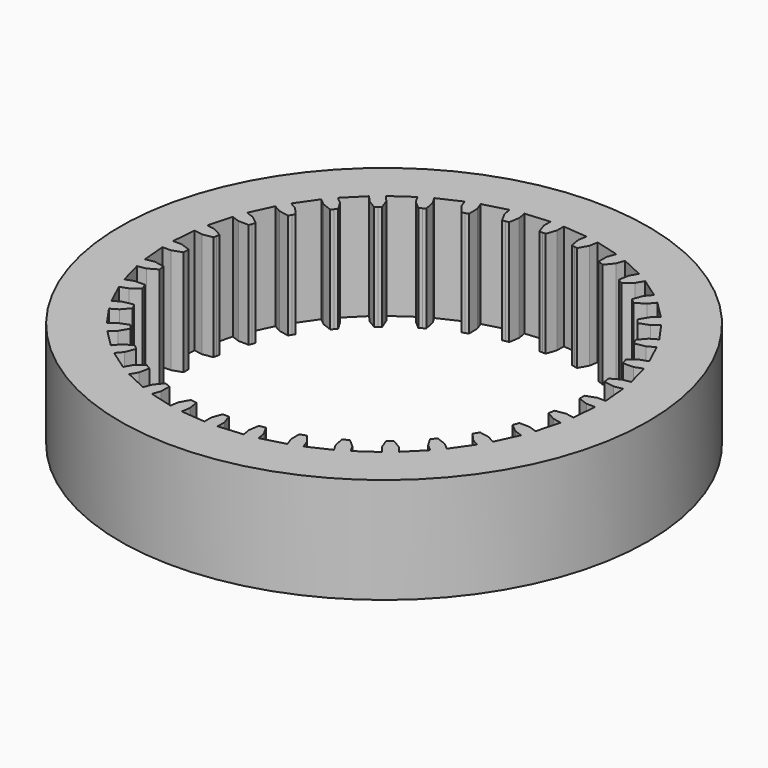
from build123d import *

# Parameters (mm, degrees)
F0_R     = 50
F1_DEPTH = 20


with BuildPart() as f1:
    # F0 (on Top) → F1 (new body)
    with BuildSketch(Plane.XY):
        Circle(F0_R)
        Polygon((-5.885256, 40.575408), (-1.25, 40.980941), (-1.25, 39.380051), (-0.599667, 37.52), (0, 37.5), (0.6, 37.5), (1.25, 39.380051), (1.25, 40.980941), (5.885256, 40.575408), (5.607264, 38.99884), (5.924723, 37.054118), (6.511807, 36.930291), (7.102691, 36.826102), (8.069284, 38.564719), (8.347275, 40.141288), (12.841691, 38.937013), (12.294155, 37.432668), (12.269094, 35.462365), (12.825755, 35.238473), (13.389571, 35.033261), (14.643386, 36.577618), (15.190923, 38.081962), (19.407939, 36.115536), (18.607494, 34.729124), (18.240674, 32.793106), (18.75, 32.475953), (19.269615, 32.175953), (20.772557, 33.479124), (21.573002, 34.865536), (25.384485, 32.196706), (24.355453, 30.970354), (23.65802, 29.127446), (24.104535, 28.726667), (24.564162, 28.340994), (26.270564, 29.363385), (27.299596, 30.589737), (30.589737, 27.299596), (29.363385, 26.270564), (28.356529, 24.576762), (28.726667, 24.104535), (29.112339, 23.644909), (30.970354, 24.355453), (32.196706, 25.384485), (34.865536, 21.573002), (33.479124, 20.772557), (32.19344, 19.279326), (32.475953, 18.75), (32.775953, 18.230385), (34.729124, 18.607494), (36.115536, 19.407939), (38.081962, 15.190923), (36.577618, 14.643386), (35.052169, 13.396098), (35.238473, 12.825755), (35.443685, 12.26194), (37.432668, 12.294155), (38.937013, 12.841691), (40.141288, 8.347275), (38.564719, 8.069284), (36.845856, 7.105836), (36.930291, 6.511807), (37.03448, 5.920922), (38.99884, 5.607264), (40.575408, 5.885256), (40.980941, 1.25), (39.380051, 1.25), (37.52, 0.599667), (37.5, 0), (37.5, -0.6), (39.380051, -1.25), (40.980941, -1.25), (40.575408, -5.885256), (38.99884, -5.607264), (37.054118, -5.924723), (36.930291, -6.511807), (36.826102, -7.102691), (38.564719, -8.069284), (40.141288, -8.347275), (38.937013, -12.841691), (37.432668, -12.294155), (35.462365, -12.269094), (35.238473, -12.825755), (35.033261, -13.389571), (36.577618, -14.643386), (38.081962, -15.190923), (36.115536, -19.407939), (34.729124, -18.607494), (32.793106, -18.240674), (32.475953, -18.75), (32.175953, -19.269615), (33.479124, -20.772557), (34.865536, -21.573002), (32.196706, -25.384485), (30.970354, -24.355453), (29.127446, -23.65802), (28.726667, -24.104535), (28.340994, -24.564162), (29.363385, -26.270564), (30.589737, -27.299596), (27.299596, -30.589737), (26.270564, -29.363385), (24.576762, -28.356529), (24.104535, -28.726667), (23.644909, -29.112339), (24.355453, -30.970354), (25.384485, -32.196706), (21.573002, -34.865536), (20.772557, -33.479124), (19.279326, -32.19344), (18.75, -32.475953), (18.230385, -32.775953), (18.607494, -34.729124), (19.407939, -36.115536), (15.190923, -38.081962), (14.643386, -36.577618), (13.396098, -35.052169), (12.825755, -35.238473), (12.26194, -35.443685), (12.294155, -37.432668), (12.841691, -38.937013), (8.347275, -40.141288), (8.069284, -38.564719), (7.105836, -36.845856), (6.511807, -36.930291), (5.920922, -37.03448), (5.607264, -38.99884), (5.885256, -40.575408), (1.25, -40.980941), (1.25, -39.380051), (0.599667, -37.52), (0, -37.5), (-0.6, -37.5), (-1.25, -39.380051), (-1.25, -40.980941), (-5.885256, -40.575408), (-5.607264, -38.99884), (-5.924723, -37.054118), (-6.511807, -36.930291), (-7.102691, -36.826102), (-8.069284, -38.564719), (-8.347275, -40.141288), (-12.841691, -38.937013), (-12.294155, -37.432668), (-12.269094, -35.462365), (-12.825755, -35.238473), (-13.389571, -35.033261), (-14.643386, -36.577618), (-15.190923, -38.081962), (-19.407939, -36.115536), (-18.607494, -34.729124), (-18.240674, -32.793106), (-18.75, -32.475953), (-19.269615, -32.175953), (-20.772557, -33.479124), (-21.573002, -34.865536), (-25.384485, -32.196706), (-24.355453, -30.970354), (-23.65802, -29.127446), (-24.104535, -28.726667), (-24.564162, -28.340994), (-26.270564, -29.363385), (-27.299596, -30.589737), (-30.589737, -27.299596), (-29.363385, -26.270564), (-28.356529, -24.576762), (-28.726667, -24.104535), (-29.112339, -23.644909), (-30.970354, -24.355453), (-32.196706, -25.384485), (-34.865536, -21.573002), (-33.479124, -20.772557), (-32.19344, -19.279326), (-32.475953, -18.75), (-32.775953, -18.230385), (-34.729124, -18.607494), (-36.115536, -19.407939), (-38.081962, -15.190923), (-36.577618, -14.643386), (-35.052169, -13.396098), (-35.238473, -12.825755), (-35.443685, -12.26194), (-37.432668, -12.294155), (-38.937013, -12.841691), (-40.141288, -8.347275), (-38.564719, -8.069284), (-36.845856, -7.105836), (-36.930291, -6.511807), (-37.03448, -5.920922), (-38.99884, -5.607264), (-40.575408, -5.885256), (-40.980941, -1.25), (-39.380051, -1.25), (-37.52, -0.599667), (-37.5, 0), (-37.5, 0.6), (-39.380051, 1.25), (-40.980941, 1.25), (-40.575408, 5.885256), (-38.99884, 5.607264), (-37.054118, 5.924723), (-36.930291, 6.511807), (-36.826102, 7.102691), (-38.564719, 8.069284), (-40.141288, 8.347275), (-38.937013, 12.841691), (-37.432668, 12.294155), (-35.462365, 12.269094), (-35.238473, 12.825755), (-35.033261, 13.389571), (-36.577618, 14.643386), (-38.081962, 15.190923), (-36.115536, 19.407939), (-34.729124, 18.607494), (-32.793106, 18.240674), (-32.475953, 18.75), (-32.175953, 19.269615), (-33.479124, 20.772557), (-34.865536, 21.573002), (-32.196706, 25.384485), (-30.970354, 24.355453), (-29.127446, 23.65802), (-28.726667, 24.104535), (-28.340994, 24.564162), (-29.363385, 26.270564), (-30.589737, 27.299596), (-27.299596, 30.589737), (-26.270564, 29.363385), (-24.576762, 28.356529), (-24.104535, 28.726667), (-23.644909, 29.112339), (-24.355453, 30.970354), (-25.384485, 32.196706), (-21.573002, 34.865536), (-20.772557, 33.479124), (-19.279326, 32.19344), (-18.75, 32.475953), (-18.230385, 32.775953), (-18.607494, 34.729124), (-19.407939, 36.115536), (-15.190923, 38.081962), (-14.643386, 36.577618), (-13.396098, 35.052169), (-12.825755, 35.238473), (-12.26194, 35.443685), (-12.294155, 37.432668), (-12.841691, 38.937013), (-8.347275, 40.141288), (-8.069284, 38.564719), (-7.105836, 36.845856), (-6.511807, 36.930291), (-5.920922, 37.03448), (-5.607264, 38.99884), align=None, mode=Mode.SUBTRACT)
    extrude(amount=F1_DEPTH)


solid = f1.part
